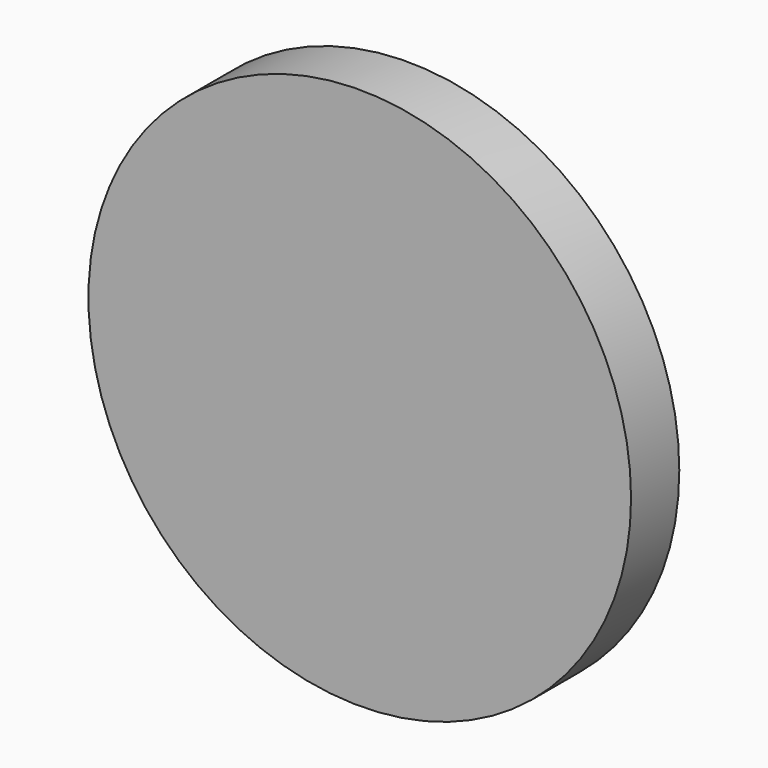
from build123d import *

# Parameters (mm, degrees)
F1_DEPTH = 10
F2_R     = 45
F3_DEPTH = 10
F4_T     = -2


with BuildPart() as f1:
    # F0 (on Front) → F1 (new body)
    with BuildSketch(Plane.XZ):
        with BuildLine():
            ThreePointArc((0, 7.5), (2.1966991411, 2.1966991411), (7.5, 0))
            Line((7.5, 0), (20, 0))
            Line((20, 0), (40, 0))
            Line((40, 0), (20, 20))
            Line((20, 20), (3.4142135624, 36.5857864376))
            ThreePointArc((3.4142135624, 36.5857864376), (1.2346331353, 37.0193319403), (0, 35.1715728753))
            Line((0, 35.1715728753), (0, 20))
            Line((0, 20), (0, 7.5))
        make_face()
    extrude(amount=-F1_DEPTH)


with BuildPart() as f1b:
    # F0 (on Front) → F1, piece 2 (new body)
    with BuildSketch(Plane.XZ):
        with BuildLine():
            Line((20, 35.1715728753), (20, 23.0705063045))
            Line((20, 23.0705063045), (43.0705063045, 0))
            Line((43.0705063045, 0), (60, 0))
            Line((60, 0), (60, 35.1715728753))
            ThreePointArc((60, 35.1715728753), (58.7653668647, 37.0193319403), (56.5857864376, 36.5857864376))
            Line((56.5857864376, 36.5857864376), (40, 20))
            Line((40, 20), (23.4142135624, 36.5857864376))
            ThreePointArc((23.4142135624, 36.5857864376), (21.2346331353, 37.0193319403), (20, 35.1715728753))
        make_face()
    extrude(amount=-F1_DEPTH)


with BuildPart() as f3:
    # F2 (on face) → F3 (new body, through all)
    with BuildSketch(Plane.XZ):
        with Locations((30, 20)):
            Circle(F2_R)
    extrude(amount=-F3_DEPTH)

    # F4
    f4_openings = [f3.faces().sort_by_distance(p)[0] for p in [
        (30, 10, 20),
    ]]
    offset(amount=F4_T, openings=f4_openings)


solid = Compound([f1.part, f1b.part, f3.part])
